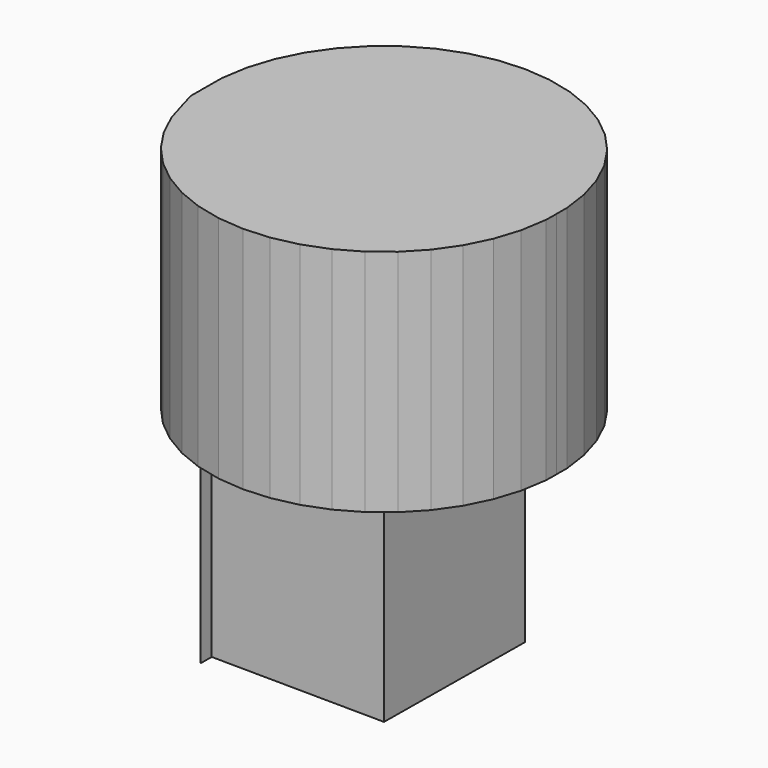
from build123d import *

# Parameters (mm, degrees)
F1_DEPTH = 30.48
F2_DEPTH = 25.4


with BuildPart() as f1:
    # F0 (on Top) → F1 (new body)
    with BuildSketch(Plane.XY):
        Polygon((-16.620932, 9.818526), (-17.898666, 7.23164), (-18.776572, 4.483211), (-19.235041, 1.634634), (-19.263831, -1.250458), (-19.250389, -1.346106), (-19.235041, 0.191944), (0, 0), (0.192627, 19.303413), (-2.686549, 19.116519), (-5.505712, 18.502594), (-8.201886, 17.475351), (-10.714844, 16.057738), (-12.98845, 14.281422), (-14.971915, 12.186083), align=None)
    extrude(amount=-F1_DEPTH)

    # F0 (on Top) → F2 (join)
    with BuildSketch(Plane.XY):
        Polygon((-16.620932, 9.818526), (-17.898666, 7.23164), (-18.776572, 4.483211), (-19.235041, 1.634634), (-19.263831, -1.250458), (-19.250389, -1.346106), (-19.235041, 0.191944), (0, 0), (0.192627, 19.303413), (-2.686549, 19.116519), (-5.505712, 18.502594), (-8.201886, 17.475351), (-10.714844, 16.057738), (-12.98845, 14.281422), (-14.971915, 12.186083), align=None)
        Polygon((-19.235041, 0.191944), (-19.250389, -1.346106), (-18.874113, -4.023554), (-18.039414, -6.873017), (-16.813559, -9.484887), (-15.212117, -11.884879), (-13.27086, -14.019383), (-11.033155, -15.840717), (-8.548988, -17.308196), (-5.87385, -18.389038), (-3.0675, -19.0591), (-0.192627, -19.303413), (0, 0), align=None)
        Polygon((-18.874113, -4.023554), (-19.250389, -1.346106), (-19.263831, -2.693147), align=None)
        Polygon((-18.039414, -6.873017), (-18.874113, -4.023554), (-18.862299, -4.107616), align=None)
        Polygon((0.192627, 19.303413), (0, 0), (19.249436, -0.192088), (19.263831, 1.250458), (18.862299, 4.107616), (18.039414, 6.873017), (16.813559, 9.484887), (15.212117, 11.884879), (13.27086, 14.019383), (11.033155, 15.840717), (8.548988, 17.308196), (5.87385, 18.389038), (3.0675, 19.0591), align=None)
        Polygon((19.249436, -0.192088), (0, 0), (-0.192627, -19.303413), (2.686549, -19.116519), (5.505712, -18.502594), (8.201886, -17.475351), (10.714844, -16.057738), (12.98845, -14.281422), (14.971915, -12.186083), (16.620932, -9.818526), (17.898666, -7.23164), (18.776572, -4.483211), (19.235041, -1.634634), align=None)
        Polygon((19.263831, -0.192232), (19.249436, -0.192088), (19.235041, -1.634634), align=None)
    extrude(amount=F2_DEPTH)


solid = f1.part
